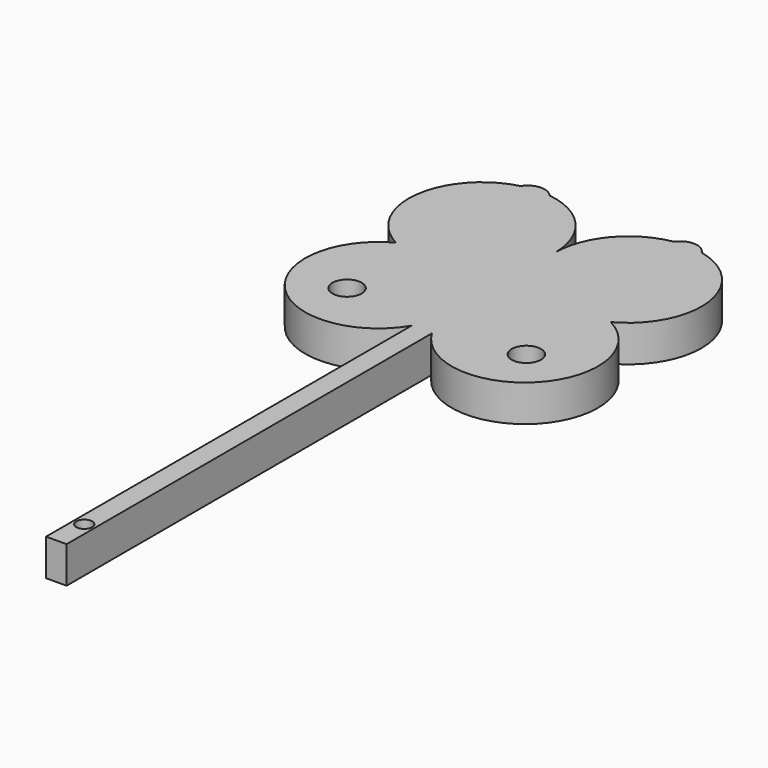
from build123d import *

# Parameters (mm, degrees)
F0_R     = 10
F0_R_2   = 5.4110615761
F1_DEPTH = 25
F2_DEPTH = 25


with BuildPart() as f1:
    # F0 (on Top) → F1 (new body)
    with BuildSketch(Plane.XY):
        with BuildLine():
            Line((-56.9581672003, 45.2024476719), (-15.9581672003, 45.2024476719))
            ThreePointArc((-15.9581672003, 45.2024476719), (-28.3942012079, 78.2016667372), (-59.5161055572, 94.7857093817))
            ThreePointArc((-59.5161055572, 94.7857093817), (-69.1375376467, 99.0362543602), (-78.191763881, 93.6827437957))
            ThreePointArc((-78.191763881, 93.6827437957), (-115.5981273519, 51.1919681993), (-89.3719782194, 1.0233411444))
            ThreePointArc((-89.3719782194, 1.0233411444), (-102.1550099365, -77.6490774294), (-22.9581672003, -68.6704670274))
            ThreePointArc((-22.9581672003, -68.6704670274), (-17.7399133953, -56.3845219384), (-15.9581672003, -43.1557653831))
            Line((-15.9581672003, -43.1557653831), (-56.9581672003, -43.1557653831))
            ThreePointArc((-56.9581672003, -43.1557653831), (-63.322128231, -40.5197264137), (-65.9581672003, -34.1557653831))
            Line((-65.9581672003, -34.1557653831), (-65.9581672003, 36.2024476719))
            ThreePointArc((-65.9581672003, 36.2024476719), (-63.322128231, 42.5664087025), (-56.9581672003, 45.2024476719))
        make_face()
        with Locations((-76.8970996141, -56.245483458)):
            Circle(F0_R, mode=Mode.SUBTRACT)
        with BuildLine():
            Line((25.0418327997, 45.2024476719), (-15.9581672003, 45.2024476719))
            Line((-15.9581672003, 45.2024476719), (-56.9581672003, 45.2024476719))
            ThreePointArc((-56.9581672003, 45.2024476719), (-63.322128231, 42.5664087025), (-65.9581672003, 36.2024476719))
            Line((-65.9581672003, 36.2024476719), (-65.9581672003, -34.1557653831))
            ThreePointArc((-65.9581672003, -34.1557653831), (-63.322128231, -40.5197264137), (-56.9581672003, -43.1557653831))
            Line((-56.9581672003, -43.1557653831), (-15.9581672003, -43.1557653831))
            Line((-15.9581672003, -43.1557653831), (25.0418327997, -43.1557653831))
            ThreePointArc((25.0418327997, -43.1557653831), (31.4057938304, -40.5197264137), (34.0418327997, -34.1557653831))
            Line((34.0418327997, -34.1557653831), (34.0418327997, 36.2024476719))
            ThreePointArc((34.0418327997, 36.2024476719), (31.4057938304, 42.5664087025), (25.0418327997, 45.2024476719))
        make_face()
        with BuildLine():
            ThreePointArc((25.7441905011, 94.5091321303), (-4.1346135706, 77.4911290097), (-15.9581672003, 45.2024476719))
            Line((-15.9581672003, 45.2024476719), (25.0418327997, 45.2024476719))
            ThreePointArc((25.0418327997, 45.2024476719), (31.4057938304, 42.5664087025), (34.0418327997, 36.2024476719))
            Line((34.0418327997, 36.2024476719), (34.0418327997, -34.1557653831))
            ThreePointArc((34.0418327997, -34.1557653831), (31.4057938304, -40.5197264137), (25.0418327997, -43.1557653831))
            Line((25.0418327997, -43.1557653831), (-15.9581672003, -43.1557653831))
            ThreePointArc((-15.9581672003, -43.1557653831), (-14.1764210053, -56.3845219384), (-8.9581672003, -68.6704670274))
            ThreePointArc((-8.9581672003, -68.6704670274), (70.2386755359, -77.6490774294), (57.4556438187, 1.0233411444))
            ThreePointArc((57.4556438187, 1.0233411444), (83.6067922706, 51.7838451407), (45.1150959261, 93.9608607278))
            ThreePointArc((45.1150959261, 93.9608607278), (35.5797605926, 99.5387739728), (25.7441905011, 94.5091321303))
        make_face()
        with Locations((45.5559305847, -56.245483458)):
            Circle(F0_R, mode=Mode.SUBTRACT)
        with BuildLine():
            ThreePointArc((-15.9581672003, -43.1557653831), (-17.7399133953, -56.3845219384), (-22.9581672003, -68.6704670274))
            Line((-22.9581672003, -68.6704670274), (-22.9581672003, -234.5025837421))
            Line((-22.9581672003, -234.5025837421), (-22.9581672003, -380.6582093239))
            Line((-22.9581672003, -380.6582093239), (-8.9581672003, -380.6582093239))
            Line((-8.9581672003, -380.6582093239), (-8.9581672003, -234.5025837421))
            Line((-8.9581672003, -234.5025837421), (-8.9581672003, -68.6704670274))
            ThreePointArc((-8.9581672003, -68.6704670274), (-14.1764210053, -56.3845219384), (-15.9581672003, -43.1557653831))
        make_face()
        with Locations((-15.9581672003, -356.8059802055)):
            Circle(F0_R_2, mode=Mode.SUBTRACT)
    extrude(amount=F1_DEPTH)

    # F0 (on Top) → F2 (join)
    with BuildSketch(Plane.XY):
        with BuildLine():
            Line((-56.9581672003, 45.2024476719), (-15.9581672003, 45.2024476719))
            ThreePointArc((-15.9581672003, 45.2024476719), (-28.3942012079, 78.2016667372), (-59.5161055572, 94.7857093817))
            ThreePointArc((-59.5161055572, 94.7857093817), (-69.1375376467, 99.0362543602), (-78.191763881, 93.6827437957))
            ThreePointArc((-78.191763881, 93.6827437957), (-115.5981273519, 51.1919681993), (-89.3719782194, 1.0233411444))
            ThreePointArc((-89.3719782194, 1.0233411444), (-102.1550099365, -77.6490774294), (-22.9581672003, -68.6704670274))
            ThreePointArc((-22.9581672003, -68.6704670274), (-17.7399133953, -56.3845219384), (-15.9581672003, -43.1557653831))
            Line((-15.9581672003, -43.1557653831), (-56.9581672003, -43.1557653831))
            ThreePointArc((-56.9581672003, -43.1557653831), (-63.322128231, -40.5197264137), (-65.9581672003, -34.1557653831))
            Line((-65.9581672003, -34.1557653831), (-65.9581672003, 36.2024476719))
            ThreePointArc((-65.9581672003, 36.2024476719), (-63.322128231, 42.5664087025), (-56.9581672003, 45.2024476719))
        make_face()
        with Locations((-76.8970996141, -56.245483458)):
            Circle(F0_R, mode=Mode.SUBTRACT)
        with BuildLine():
            Line((25.0418327997, 45.2024476719), (-15.9581672003, 45.2024476719))
            Line((-15.9581672003, 45.2024476719), (-56.9581672003, 45.2024476719))
            ThreePointArc((-56.9581672003, 45.2024476719), (-63.322128231, 42.5664087025), (-65.9581672003, 36.2024476719))
            Line((-65.9581672003, 36.2024476719), (-65.9581672003, -34.1557653831))
            ThreePointArc((-65.9581672003, -34.1557653831), (-63.322128231, -40.5197264137), (-56.9581672003, -43.1557653831))
            Line((-56.9581672003, -43.1557653831), (-15.9581672003, -43.1557653831))
            Line((-15.9581672003, -43.1557653831), (25.0418327997, -43.1557653831))
            ThreePointArc((25.0418327997, -43.1557653831), (31.4057938304, -40.5197264137), (34.0418327997, -34.1557653831))
            Line((34.0418327997, -34.1557653831), (34.0418327997, 36.2024476719))
            ThreePointArc((34.0418327997, 36.2024476719), (31.4057938304, 42.5664087025), (25.0418327997, 45.2024476719))
        make_face()
        with BuildLine():
            ThreePointArc((25.7441905011, 94.5091321303), (-4.1346135706, 77.4911290097), (-15.9581672003, 45.2024476719))
            Line((-15.9581672003, 45.2024476719), (25.0418327997, 45.2024476719))
            ThreePointArc((25.0418327997, 45.2024476719), (31.4057938304, 42.5664087025), (34.0418327997, 36.2024476719))
            Line((34.0418327997, 36.2024476719), (34.0418327997, -34.1557653831))
            ThreePointArc((34.0418327997, -34.1557653831), (31.4057938304, -40.5197264137), (25.0418327997, -43.1557653831))
            Line((25.0418327997, -43.1557653831), (-15.9581672003, -43.1557653831))
            ThreePointArc((-15.9581672003, -43.1557653831), (-14.1764210053, -56.3845219384), (-8.9581672003, -68.6704670274))
            ThreePointArc((-8.9581672003, -68.6704670274), (70.2386755359, -77.6490774294), (57.4556438187, 1.0233411444))
            ThreePointArc((57.4556438187, 1.0233411444), (83.6067922706, 51.7838451407), (45.1150959261, 93.9608607278))
            ThreePointArc((45.1150959261, 93.9608607278), (35.5797605926, 99.5387739728), (25.7441905011, 94.5091321303))
        make_face()
        with Locations((45.5559305847, -56.245483458)):
            Circle(F0_R, mode=Mode.SUBTRACT)
        with BuildLine():
            ThreePointArc((-15.9581672003, -43.1557653831), (-17.7399133953, -56.3845219384), (-22.9581672003, -68.6704670274))
            Line((-22.9581672003, -68.6704670274), (-22.9581672003, -234.5025837421))
            Line((-22.9581672003, -234.5025837421), (-22.9581672003, -380.6582093239))
            Line((-22.9581672003, -380.6582093239), (-8.9581672003, -380.6582093239))
            Line((-8.9581672003, -380.6582093239), (-8.9581672003, -234.5025837421))
            Line((-8.9581672003, -234.5025837421), (-8.9581672003, -68.6704670274))
            ThreePointArc((-8.9581672003, -68.6704670274), (-14.1764210053, -56.3845219384), (-15.9581672003, -43.1557653831))
        make_face()
        with Locations((-15.9581672003, -356.8059802055)):
            Circle(F0_R_2, mode=Mode.SUBTRACT)
    extrude(amount=F2_DEPTH)


solid = f1.part
